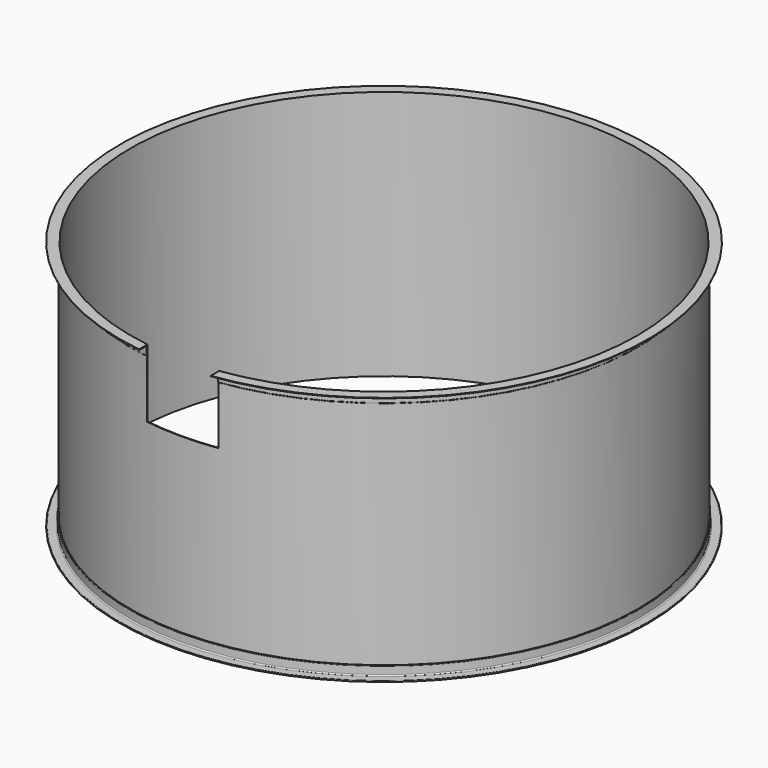
from build123d import *

# Parameters (mm, degrees)
SKETCH001_W   = 550
SKETCH001_H   = 520
EXTRUDE_DEPTH = 2500
SKETCH_W      = 5
SKETCH_H      = 1920


with BuildPart() as extrude_body:
    # Sketch001 → Extrude (new body)
    with BuildSketch(Plane.XZ):
        with Locations((0, 1660)):
            Rectangle(SKETCH001_W, SKETCH001_H)
    extrude(amount=EXTRUDE_DEPTH)


with BuildPart() as revolve001:
    # AngleSteel → Revolve001 (revolve)
    with BuildSketch(Plane(origin=(1970.58985, 0, 20.58985), x_dir=(1, 0, 0), z_dir=(0, 1, 0))):
        with BuildLine():
            Line((-20.58985, 20.58985), (-20.58985, -54.41015))
            Line((-20.58985, -54.41015), (-18.58985, -54.41015))
            ThreePointArc((-18.58985, -54.41015), (-15.761423, -53.238577), (-14.58985, -50.41015))
            Line((-14.58985, -50.41015), (-14.58985, 6.08985))
            ThreePointArc((-14.58985, 6.08985), (-12.100258, 12.100258), (-6.08985, 14.58985))
            Line((-6.08985, 14.58985), (50.41015, 14.58985))
            ThreePointArc((50.41015, 14.58985), (53.238577, 15.761423), (54.41015, 18.58985))
            Line((54.41015, 18.58985), (54.41015, 20.58985))
            Line((54.41015, 20.58985), (-20.58985, 20.58985))
        make_face()
    revolve(axis=Axis((0, 0, 0), (0, 0, 1)))


with BuildPart() as revolve002:
    # AngleSteel001 → Revolve002 (revolve)
    with BuildSketch(Plane(origin=(1970.58985, 0, 1899.41015), x_dir=(1, 0, 0), z_dir=(0, 1, 0))):
        with BuildLine():
            Line((-20.58985, -20.58985), (54.41015, -20.58985))
            Line((54.41015, -20.58985), (54.41015, -18.58985))
            ThreePointArc((54.41015, -18.58985), (53.238577, -15.761423), (50.41015, -14.58985))
            Line((50.41015, -14.58985), (-6.08985, -14.58985))
            ThreePointArc((-6.08985, -14.58985), (-12.100258, -12.100258), (-14.58985, -6.08985))
            Line((-14.58985, -6.08985), (-14.58985, 50.41015))
            ThreePointArc((-14.58985, 50.41015), (-15.761423, 53.238577), (-18.58985, 54.41015))
            Line((-18.58985, 54.41015), (-20.58985, 54.41015))
            Line((-20.58985, 54.41015), (-20.58985, -20.58985))
        make_face()
    revolve(axis=Axis((0, 0, 0), (0, 0, 1)))


with BuildPart() as cut:
    # Sketch → Revolve (revolve)
    with BuildSketch(Plane.XZ):
        with Locations((1947.5, 960)):
            Rectangle(SKETCH_W, SKETCH_H)
    revolve(axis=Axis((0, 0, 0), (0, 0, 1)))

    # Fusion: union Revolve001, Revolve002
    add(revolve001.part)
    add(revolve002.part)

    # Cut: cut Extrude body
    add(extrude_body.part, mode=Mode.SUBTRACT)


solid = cut.part
